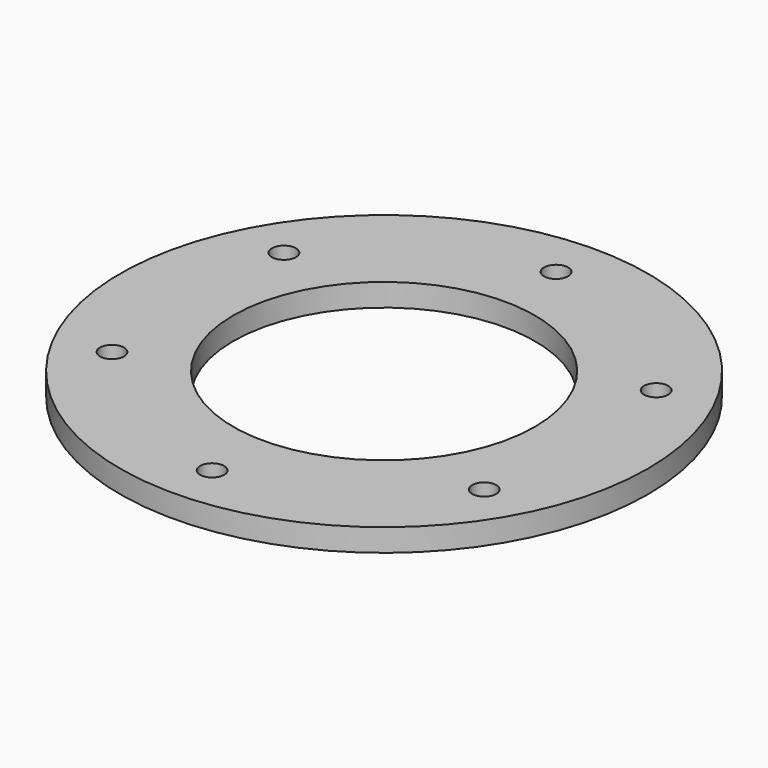
from build123d import *

# Parameters (mm, degrees)
F0_R     = 22.5
F0_R_2   = 20
F1_DEPTH = 3
F0_R_3   = 35
F0_R_4   = 1.6
F2_DEPTH = 3


with BuildPart() as f1:
    # F0 (on Top) → F1 (new body)
    with BuildSketch(Plane.XY):
        Circle(F0_R)
        Circle(F0_R_2, mode=Mode.SUBTRACT)
    extrude(amount=F1_DEPTH)

    # F0 (on Top) → F2 (join)
    with BuildSketch(Plane.XY):
        Circle(F0_R_3)
        with Locations((-24.681724, -14.25)):
            Circle(F0_R_4, mode=Mode.SUBTRACT)
        with Locations((0, -28.5)):
            Circle(F0_R_4, mode=Mode.SUBTRACT)
        with Locations((24.681724, -14.25)):
            Circle(F0_R_4, mode=Mode.SUBTRACT)
        with Locations((-24.681724, 14.25)):
            Circle(F0_R_4, mode=Mode.SUBTRACT)
        Circle(F0_R, mode=Mode.SUBTRACT)
        with Locations((24.681724, 14.25)):
            Circle(F0_R_4, mode=Mode.SUBTRACT)
        with Locations((0, 28.5)):
            Circle(F0_R_4, mode=Mode.SUBTRACT)
    extrude(amount=F2_DEPTH)


solid = f1.part
